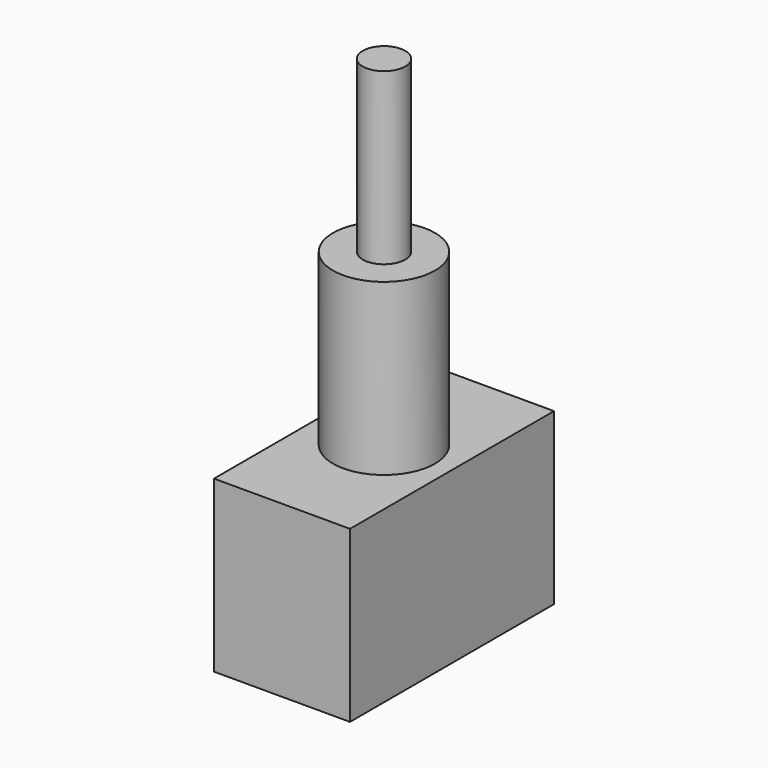
from build123d import *

# Parameters (mm, degrees)
F0_W     = 8
F0_H     = 15
F1_DEPTH = 10
F2_R     = 3
F3_DEPTH = 10
F4_R     = 1.25
F5_DEPTH = 10


with BuildPart() as f1:
    # F0 (on Top) → F1 (new body)
    with BuildSketch(Plane.XY):
        Rectangle(F0_W, F0_H)
    extrude(amount=F1_DEPTH)

    # F2 (on face) → F3 (join)
    with BuildSketch(Plane.XY.offset(10)):
        Circle(F2_R)
    extrude(amount=F3_DEPTH)

    # F4 (on face) → F5 (join)
    with BuildSketch(Plane.XY.offset(20)):
        Circle(F4_R)
    extrude(amount=F5_DEPTH)


solid = f1.part
